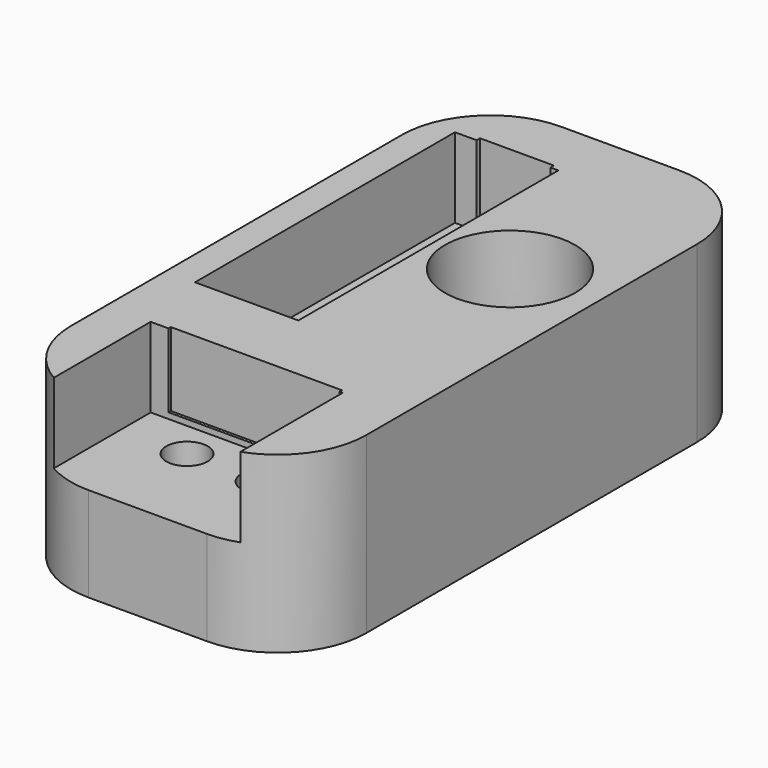
from build123d import *

# Parameters (mm, degrees)
BOX001_W        = 3.5
BOX001_H        = 11
BOX001_DEPTH    = 10
BOX_W           = 6.5
BOX_H           = 5
BOX_DEPTH       = 4
SKETCH010_W     = 10
SKETCH010_H     = 20
PAD004_DEPTH    = 1.2
SKETCH011_R     = 0.7
POCKET004_DEPTH = 1.201
SKETCH012_W     = 10
SKETCH012_H     = 20
PAD005_DEPTH    = 0.2
SKETCH014_W     = 10
SKETCH014_H     = 20
PAD006_DEPTH    = 2
POCKET005_DEPTH = 2
SKETCH015_W     = 10
SKETCH015_H     = 20
PAD007_DEPTH    = 2.5
SKETCH016_R     = 2.2
SKETCH016_W     = 5.8
SKETCH016_H     = 2.7
SKETCH016_W_2   = 2.5
SKETCH016_H_2   = 10.776226
POCKET006_DEPTH = 2.5
FILLET_R        = 3


with BuildPart() as cubo001:
    # Box001 → Box001 (new body)
    with BuildSketch(Plane(origin=(-4, -3, 1), x_dir=(1, 0, 0), z_dir=(0, 0, 1))):
        with Locations((1.75, 5.5)):
            Rectangle(BOX001_W, BOX001_H)
    extrude(amount=BOX001_DEPTH)


with BuildPart() as cubo:
    # Box → Box (new body)
    with BuildSketch(Plane(origin=(-3.5, -10.5, 1), x_dir=(1, 0, 0), z_dir=(0, 0, 1))):
        with Locations((3.25, 2.5)):
            Rectangle(BOX_W, BOX_H)
    extrude(amount=BOX_DEPTH)


with BuildPart() as obj1:
    # Sketch010 → Pad004 (new body)
    with BuildSketch(Plane.XY):
        Rectangle(SKETCH010_W, SKETCH010_H)
    extrude(amount=PAD004_DEPTH)

    # Sketch011 → Pocket004 (cut, through all)
    with BuildSketch(Plane.XY.offset(1.2)):
        with Locations((-1.27, -6.75)):
            Circle(SKETCH011_R)
        with Locations((1.27, -6.75)):
            Circle(SKETCH011_R)
        with Locations((-2, 7.25)):
            Circle(SKETCH011_R)
        with Locations((-2, -1.75)):
            Circle(SKETCH011_R)
        with Locations((2, 4.02)):
            Circle(SKETCH011_R)
        with Locations((2, 1.48)):
            Circle(SKETCH011_R)
    extrude(amount=-POCKET004_DEPTH, mode=Mode.SUBTRACT)

    # Sketch012 → Pad005 (new body)
    with BuildSketch(Plane(origin=(0, 0, 0), x_dir=(1, 0, 0), z_dir=(0, 0, -1))):
        Rectangle(SKETCH012_W, SKETCH012_H)
    extrude(amount=PAD005_DEPTH)

    # Sketch014 → Pad006 (new body)
    with BuildSketch(Plane(origin=(0, 0, -0.2), x_dir=(1, 0, 0), z_dir=(0, 0, -1))):
        Rectangle(SKETCH014_W, SKETCH014_H)
    extrude(amount=PAD006_DEPTH)

    # Sketch013 → Pocket005 (cut)
    with BuildSketch(Plane(origin=(0, 0, -2.2), x_dir=(1, 0, 0), z_dir=(0, 0, -1))):
        Polygon((-3.80896, 8.420167), (3.62375, 8.420167), (3.62375, -5.103398), (0, -7.181223), (0, -8.736001), (-3.696102, -8.736001), (-3.696102, -5.976334), (0.775065, -3.412608), (0.775065, 5.283805), (-0.618984, 5.283805), (-0.618984, 0.458633), (-3.80896, 0.458633), align=None)
    extrude(amount=-POCKET005_DEPTH, mode=Mode.SUBTRACT)

    # Sketch015 → Pad007 (new body)
    with BuildSketch(Plane.XY.offset(1.2)):
        Rectangle(SKETCH015_W, SKETCH015_H)
    extrude(amount=PAD007_DEPTH)

    # Sketch016 → Pocket006 (cut)
    with BuildSketch(Plane.XY.offset(3.7)):
        with Locations((2.024904, 2.79891)):
            Circle(SKETCH016_R)
        with Locations((0, -6.75)):
            Rectangle(SKETCH016_W, SKETCH016_H)
        with Locations((-2.017145, 2.756578)):
            Rectangle(SKETCH016_W_2, SKETCH016_H_2)
    extrude(amount=-POCKET006_DEPTH, mode=Mode.SUBTRACT)

    # Fillet
    fillet_edges = [obj1.edges().sort_by_distance(p)[0] for p in [
        (5, -10, 0.75),
        (-5, -10, 0.75),
        (5, 10, 0.75),
        (-5, 10, 0.75),
    ]]
    fillet(fillet_edges, radius=FILLET_R)

    # Cut: cut Cubo
    add(cubo.part, mode=Mode.SUBTRACT)

    # Cut001: cut Cubo001
    add(cubo001.part, mode=Mode.SUBTRACT)


solid = obj1.part
